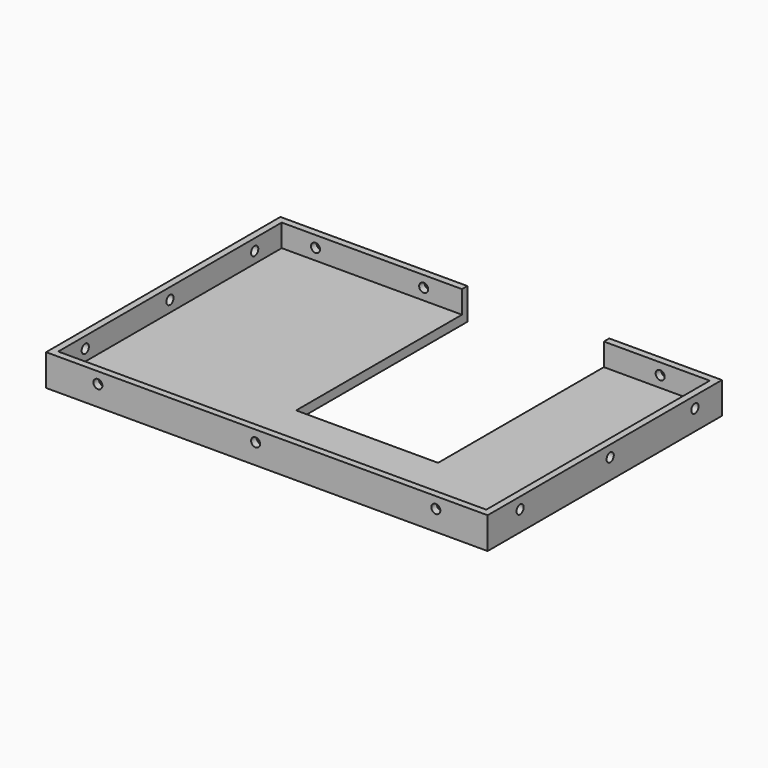
from build123d import *

# Parameters (mm, degrees)
F1_DEPTH  = 4
F3_DEPTH  = 10
F4_R      = 2
F5_DEPTH  = 5
F7_R      = 2
F8_DEPTH  = 5
F6_R      = 2
F9_DEPTH  = 5
F10_R     = 2
F11_DEPTH = 5


with BuildPart() as f1:
    # F0 (on Top) → F1 (new body)
    with BuildSketch(Plane.XY):
        Polygon((-14.729894, 40.995409), (-97.729894, 40.995409), (-97.729894, -89.004591), (98.270106, -89.004591), (98.270106, 40.995409), (48.270106, 40.995409), (48.270106, -54.004591), (-14.729894, -54.004591), align=None)
    extrude(amount=F1_DEPTH)

    # F2 (on face) → F3 (join)
    with BuildSketch(Plane.XY.offset(4)):
        Polygon((-94.729894, -86.004591), (-94.729894, 37.995409), (-14.729894, 37.995409), (-14.729894, 40.995409), (-97.729894, 40.995409), (-97.729894, -89.004591), (98.270106, -89.004591), (98.270106, 40.995409), (48.270106, 40.995409), (48.270106, 37.995409), (95.270106, 37.995409), (95.270106, -86.004591), align=None)
    extrude(amount=F3_DEPTH)

    # F4 (on face) → F5 (cut)
    with BuildSketch(Plane.YZ.offset(-94.729894)):
        with Locations((22.995409, 9)):
            Circle(F4_R)
        with Locations((-24.004591, 9)):
            Circle(F4_R)
        with Locations((-71.004591, 9)):
            Circle(F4_R)
    extrude(amount=-F5_DEPTH, mode=Mode.SUBTRACT)

    # F7 (on face) → F8 (cut)
    with BuildSketch(Plane(origin=(95.270106, 0, 0), x_dir=(0, -1, 0), z_dir=(-1, 0, 0))):
        with Locations((71.004591, 9)):
            Circle(F7_R)
        with Locations((21.004591, 9)):
            Circle(F7_R)
        with Locations((-25.995409, 9)):
            Circle(F7_R)
    extrude(amount=-F8_DEPTH, mode=Mode.SUBTRACT)

    # F6 (on face) → F9 (cut)
    with BuildSketch(Plane.XZ.offset(-37.995409)):
        with Locations((-79.729894, 9)):
            Circle(F6_R)
        with Locations((-31.729894, 9)):
            Circle(F6_R)
        with Locations((73.270106, 9)):
            Circle(F6_R)
    extrude(amount=-F9_DEPTH, mode=Mode.SUBTRACT)

    # F10 (on face) → F11 (cut)
    with BuildSketch(Plane(origin=(0, -86.004591, 0), x_dir=(-1, 0, 0), z_dir=(0, 1, 0))):
        with Locations((-75.270106, 9)):
            Circle(F10_R)
        with Locations((4.729894, 9)):
            Circle(F10_R)
        with Locations((74.729894, 9)):
            Circle(F10_R)
    extrude(amount=-F11_DEPTH, mode=Mode.SUBTRACT)


solid = f1.part
